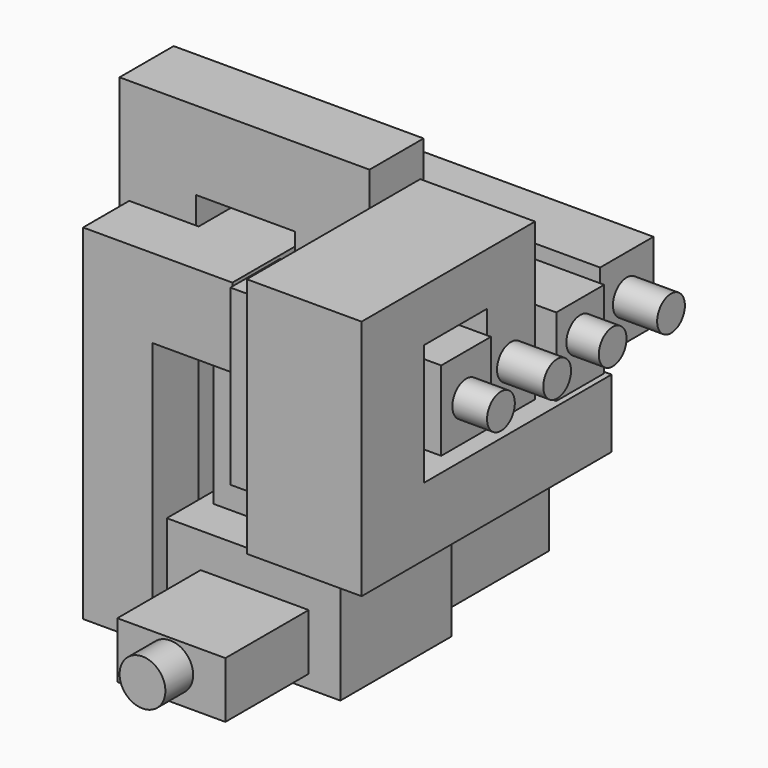
from build123d import *

# Parameters (mm, degrees)
F0_W      = 500
F0_H      = 300
F1_DEPTH  = 400
F2_W      = 194.6479137987
F2_H      = 116.2542514503
F2_W_2    = 185.7395432889
F2_H_2    = 104.6733558178
F3_DEPTH  = 200
F4_W      = 200.438356027
F4_H      = 251.2160688639
F4_W_2    = 207.3423415422
F4_H_2    = 244.5347867906
F5_DEPTH  = 200
F6_W      = 311.2314343452
F6_H      = 161.7837399244
F7_DEPTH  = 300
F8_W      = 785.5169922113
F8_H      = 196.2788403034
F9_DEPTH  = 200
F10_DEPTH = 200
F11_W     = 207.3423415422
F11_H     = 178.8012206554
F12_DEPTH = 300
F13_W     = 330.7198137045
F13_H     = 196.2788403034
F14_DEPTH = 700
F15_W     = 178.8012206554
F15_H     = 229.1771650314
F16_DEPTH = 400
F17_W     = 166.0685539246
F17_H     = 392.9448246956
F18_DEPTH = 200
F19_DEPTH = 600
F20_W     = 166.0685539246
F20_H     = 228.0832886696
F21_DEPTH = 230
F22_W     = 230
F22_H     = 228.0832886696
F23_DEPTH = 600
F24_W     = 191.9558256865
F24_H     = 228.0832886696
F25_DEPTH = 600
F26_W     = 330.7198137045
F26_H     = 224.4375318289
F27_DEPTH = 500
F28_W     = 330.7198137045
F28_H     = 150.941491127
F29_DEPTH = 400
F30_W     = 330.7198137045
F30_H     = 173.616194725
F31_DEPTH = 300
F32_W     = 230.9049870819
F32_H     = 232.3303222656
F33_DEPTH = 400
F34_W     = 200
F34_H     = 232.3303222656
F35_DEPTH = 400
F36_W     = 134.3211080879
F36_H     = 232.3303222656
F37_DEPTH = 450
F38_W     = 220.0524806976
F38_H     = 194.8631778359
F39_DEPTH = 1000
F40_W     = 194.8631778359
F40_H     = 226.6708314419
F41_DEPTH = 500
F42_W     = 213.9312028885
F42_H     = 194.8631778359
F43_DEPTH = 300
F44_W     = 213.9312028885
F44_H     = 224.6371984482
F45_DEPTH = 150
F46_W     = 172.431588918
F46_H     = 224.6371984482
F47_DEPTH = 400
F48_R     = 65.9786612065
F49_DEPTH = 100
F50_R     = 50
F51_DEPTH = 100
F52_R     = 50
F53_DEPTH = 200
F54_R     = 50
F55_DEPTH = 200
F56_R     = 50
F57_DEPTH = 200
F58_W     = 1393.2492136955
F58_H     = 511.3118588924
F58_R     = 50
F59_DEPTH = 200


with BuildPart() as f1:
    # F0 (on Front) → F1 (new body)
    with BuildSketch(Plane.XZ):
        with Locations((0, -50)):
            Rectangle(F0_W, F0_H)
    extrude(amount=F1_DEPTH)

    # F2 (on face) → F3 (join)
    with BuildSketch(Plane.XY.offset(100)):
        with Locations((110.0183846429, -98.0239007622)):
            Rectangle(F2_W, F2_H)
        with Locations((-118.4813398868, -227.6407033205)):
            Rectangle(F2_W_2, F2_H_2)
    extrude(amount=F3_DEPTH)

    # F4 (on face) → F5 (join)
    with BuildSketch(Plane.XY.offset(300)):
        with Locations((-111.1319335178, -154.3693467975)):
            Rectangle(F4_W, F4_H)
        with Locations((103.6711707711, -161.2733323127)):
            Rectangle(F4_W_2, F4_H_2)
    extrude(amount=F5_DEPTH)

    # F6 (on face) → F7 (join)
    with BuildSketch(Plane.XZ.offset(400)):
        with Locations((3.1632035971, -80.8918699622)):
            Rectangle(F6_W, F6_H)
    extrude(amount=F7_DEPTH)

    # F8 (on face) → F9 (join)
    with BuildSketch(Plane(origin=(0, -28.7613123655, 0), x_dir=(-1, 0, 0), z_dir=(0, 1, 0))):
        with Locations((-181.4073845744, 401.8605798483)):
            Rectangle(F8_W, F8_H)
    extrude(amount=F9_DEPTH)

    # F10 (add): a face of the model
    f10_faces = [f1.faces().sort_by_distance(p)[0] for p in [
        (103.6711707711, -283.540725708, 400),
    ]]
    extrude(f10_faces, amount=F10_DEPTH)

    # F11 (on face) → F12 (join)
    with BuildSketch(Plane.XY.offset(500)):
        with Locations((103.6711707711, -394.1401153803)):
            Rectangle(F11_W, F11_H)
    extrude(amount=F12_DEPTH)

    # F13 (on face) → F14 (join)
    with BuildSketch(Plane.XZ.offset(28.7613123655)):
        with Locations((408.8059738278, 401.8605798483)):
            Rectangle(F13_W, F13_H)
    extrude(amount=F14_DEPTH)

    # F15 (on face) → F16 (join)
    with BuildSketch(Plane.YZ.offset(207.3423415422)):
        with Locations((-394.1401153803, 685.4114174843)):
            Rectangle(F15_W, F15_H)
    extrude(amount=F16_DEPTH)

    # F17 (on face) → F18 (join)
    with BuildSketch(Plane(origin=(-250, 0, 0), x_dir=(0, -1, 0), z_dir=(-1, 0, 0))):
        with Locations((368.2630956173, -3.5275876522)):
            Rectangle(F17_W, F17_H)
    extrude(amount=F18_DEPTH)

    # F19 (add): a face of the model
    f19_faces = [f1.faces().sort_by_distance(p)[0] for p in [
        (-350, -368.2630956173, 192.9448246956),
    ]]
    extrude(f19_faces, amount=F19_DEPTH)

    # F20 (on face) → F21 (join)
    with BuildSketch(Plane.YZ.offset(-250)):
        with Locations((-368.2630956173, 678.9031803608)):
            Rectangle(F20_W, F20_H)
    extrude(amount=F21_DEPTH)

    # F22 (on face) → F23 (join)
    with BuildSketch(Plane(origin=(0, -285.228818655, 0), x_dir=(-1, 0, 0), z_dir=(0, 1, 0))):
        with Locations((135, 678.9031803608)):
            Rectangle(F22_W, F22_H)
    extrude(amount=F23_DEPTH)

    # F24 (on face) → F25 (join)
    with BuildSketch(Plane.YZ.offset(-20)):
        with Locations((218.7932685018, 678.9031803608)):
            Rectangle(F24_W, F24_H)
    extrude(amount=F25_DEPTH)

    # F26 (on face) → F27 (join)
    with BuildSketch(Plane.XY.offset(500)):
        with Locations((408.8059738278, -616.5425464511)):
            Rectangle(F26_W, F26_H)
    extrude(amount=F27_DEPTH)

    # F28 (on face) → F29 (join)
    with BuildSketch(Plane(origin=(0, -504.3237805367, 0), x_dir=(-1, 0, 0), z_dir=(0, 1, 0))):
        with Locations((-408.8059738278, 924.5292544365)):
            Rectangle(F28_W, F28_H)
    extrude(amount=F29_DEPTH)

    # F30 (on face) → F31 (join)
    with BuildSketch(Plane(origin=(0, 0, 849.058508873), x_dir=(1, 0, 0), z_dir=(0, 0, -1))):
        with Locations((408.8059738278, 191.1318778992)):
            Rectangle(F30_W, F30_H)
    extrude(amount=F31_DEPTH)

    # F32 (on face) → F33 (join)
    with BuildSketch(Plane(origin=(0, 0, 0), x_dir=(-1, 0, 0), z_dir=(0, 1, 0))):
        with Locations((-95.0625883415, -42.5678789616)):
            Rectangle(F32_W, F32_H)
    extrude(amount=F33_DEPTH)

    # F34 (on face) → F35 (join)
    with BuildSketch(Plane(origin=(-20.3899051994, 0, 0), x_dir=(0, -1, 0), z_dir=(-1, 0, 0))):
        with Locations((-300, -42.5678789616)):
            Rectangle(F34_W, F34_H)
    extrude(amount=F35_DEPTH)

    # F36 (on face) → F37 (join)
    with BuildSketch(Plane.XZ.offset(-200)):
        with Locations((-353.2293511555, -42.5678789616)):
            Rectangle(F36_W, F36_H)
    extrude(amount=F37_DEPTH)

    # F38 (on face) → F39 (join)
    with BuildSketch(Plane.XY.offset(73.5972821712)):
        with Locations((-396.0950374603, -152.568411082)):
            Rectangle(F38_W, F38_H)
    extrude(amount=F39_DEPTH)

    # F40 (on face) → F41 (join)
    with BuildSketch(Plane.YZ.offset(-286.0687971115)):
        with Locations((-152.568411082, 960.2618664503)):
            Rectangle(F40_W, F40_H)
    extrude(amount=F41_DEPTH)

    # F42 (on face) → F43 (join)
    with BuildSketch(Plane(origin=(0, 0, 846.9264507294), x_dir=(1, 0, 0), z_dir=(0, 0, -1))):
        with Locations((106.9656014442, 152.568411082)):
            Rectangle(F42_W, F42_H)
    extrude(amount=F43_DEPTH)

    # F44 (on face) → F45 (join)
    with BuildSketch(Plane(origin=(0, -55.1368221641, 0), x_dir=(-1, 0, 0), z_dir=(0, 1, 0))):
        with Locations((-106.9656014442, 659.2450499535)):
            Rectangle(F44_W, F44_H)
    extrude(amount=F45_DEPTH)

    # F46 (on face) → F47 (join)
    with BuildSketch(Plane.YZ.offset(213.9312028885)):
        with Locations((8.647383377, 659.2450499535)):
            Rectangle(F46_W, F46_H)
    extrude(amount=F47_DEPTH)

    # F48 (on face) → F49 (join)
    with BuildSketch(Plane.XZ.offset(700)):
        with Locations((0, -72.7314278483)):
            Circle(F48_R)
    extrude(amount=F49_DEPTH)

    # F50 (on face) → F51 (join)
    with BuildSketch(Plane.YZ.offset(607.3423415422)):
        with Locations((-393.540725708, 680)):
            Circle(F50_R)
    extrude(amount=F51_DEPTH)

    # F52 (on face) → F53 (join)
    with BuildSketch(Plane.YZ.offset(574.1658806801)):
        with Locations((-191.1318778992, 680)):
            Circle(F52_R)
    extrude(amount=F53_DEPTH)

    # F54 (on face) → F55 (join)
    with BuildSketch(Plane.YZ.offset(613.9312028885)):
        with Locations((8.647383377, 680)):
            Circle(F54_R)
    extrude(amount=F55_DEPTH)

    # F56 (on face) → F57 (join)
    with BuildSketch(Plane.YZ.offset(580)):
        with Locations((218.7932685018, 678.9031803608)):
            Circle(F56_R)
    extrude(amount=F57_DEPTH)

    # F58 (on face) → F59 (cut)
    with BuildSketch(Plane.YZ.offset(707.3423415422)):
        with Locations((-61.5827143192, 670.519605279)):
            Rectangle(F58_W, F58_H)
        with Locations((-393.540725708, 680)):
            Circle(F58_R, mode=Mode.SUBTRACT)
    extrude(amount=F59_DEPTH, mode=Mode.SUBTRACT)


solid = f1.part
